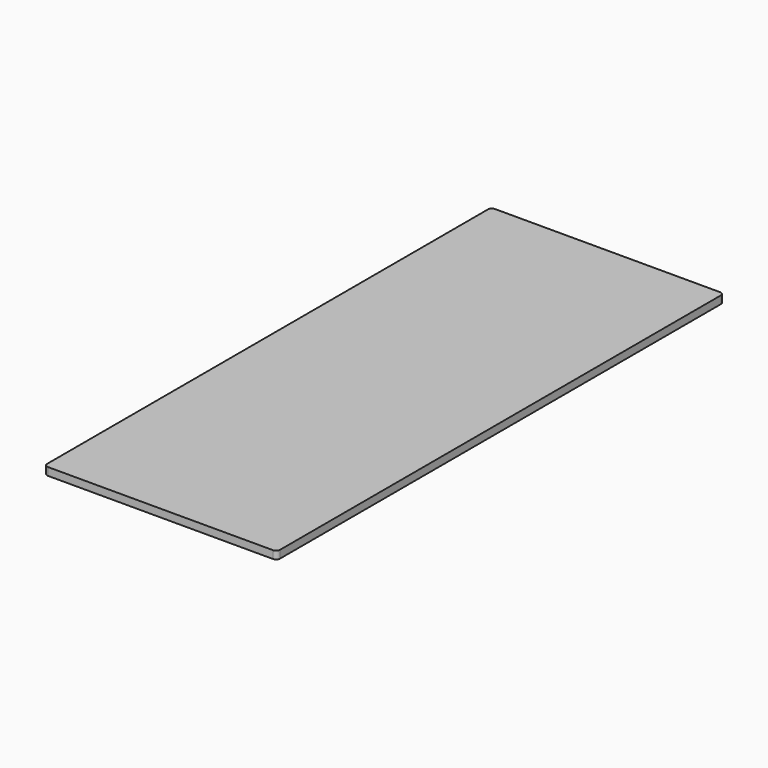
from build123d import *

# Parameters (mm, degrees)
F1_DEPTH  = 25.4
F3_W      = 1803.4
F3_H      = 25.4
F4_DEPTH  = 3.175
F4_FACE_W = 1803.4
F4_FACE_H = 25.4
F5_DEPTH  = 3.175


with BuildPart() as f1:
    # F0 (on Top) → F1 (new body)
    with BuildSketch(Plane.XY):
        with BuildLine():
            Line((749.3, 0), (12.7, 0))
            ThreePointArc((12.7, 0), (3.719744, -3.719744), (0, -12.7))
            Line((0, -12.7), (0, -1816.1))
            ThreePointArc((0, -1816.1), (3.719744, -1825.080256), (12.7, -1828.8))
            Line((12.7, -1828.8), (749.3, -1828.8))
            ThreePointArc((749.3, -1828.8), (758.280256, -1825.080256), (762, -1816.1))
            Line((762, -1816.1), (762, -12.7))
            ThreePointArc((762, -12.7), (758.280256, -3.719744), (749.3, 0))
        make_face()
    extrude(amount=F1_DEPTH)

    # F3 (on face) → F4 (join)
    with BuildSketch(Plane(origin=(0, 0, 0), x_dir=(0, -1, 0), z_dir=(-1, 0, 0))):
        with Locations((914.4, 12.7)):
            Rectangle(F3_W, F3_H)
    extrude(amount=F4_DEPTH)

    # F4_face (on face) → F5 (cut)
    with BuildSketch(Plane(origin=(-3.175, -914.4, 12.7), x_dir=(0, -1, 0), z_dir=(-1, 0, 0))):
        Rectangle(F4_FACE_W, F4_FACE_H)
    extrude(amount=-F5_DEPTH, mode=Mode.SUBTRACT)


solid = f1.part
